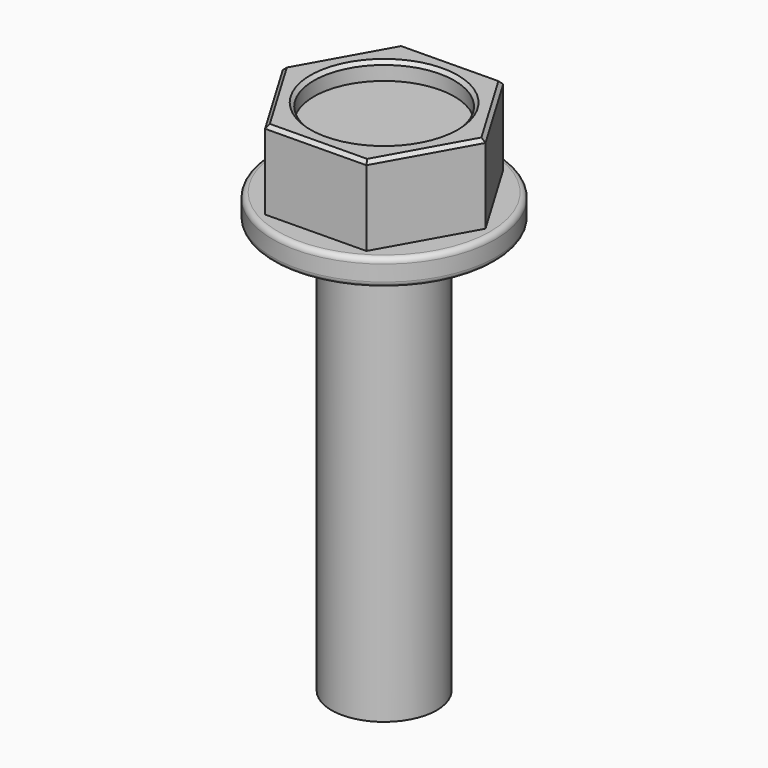
from build123d import *

# Parameters (mm, degrees)
F0_R     = 3
F1_DEPTH = 4.5
F0_R_2   = 6.35
F2_DEPTH = 1.5
F3_DEPTH = 25
F4_R     = 0.3
F5_R     = 4
F6_DEPTH = 1
F7_SIZE  = 0.2


with BuildPart() as f1:
    # F0 (on Top) → F1 (new body)
    with BuildSketch(Plane.XY):
        Polygon((2.921558, -4.912687), (5.715291, 0.0738), (2.793733, 4.986487), (-2.921558, 4.912687), (-5.715291, -0.0738), (-2.793733, -4.986487), align=None)
        Circle(F0_R, mode=Mode.SUBTRACT)
        Circle(F0_R)
    extrude(amount=F1_DEPTH)

    # F0 (on Top) → F2 (join)
    with BuildSketch(Plane.XY):
        Circle(F0_R_2)
        Polygon((2.793733, 4.986487), (5.715291, 0.0738), (2.921558, -4.912687), (-2.793733, -4.986487), (-5.715291, -0.0738), (-2.921558, 4.912687), align=None, mode=Mode.SUBTRACT)
        Circle(F0_R)
        Polygon((2.921558, -4.912687), (5.715291, 0.0738), (2.793733, 4.986487), (-2.921558, 4.912687), (-5.715291, -0.0738), (-2.793733, -4.986487), align=None)
        Circle(F0_R, mode=Mode.SUBTRACT)
    extrude(amount=-F2_DEPTH)

    # F0 (on Top) → F3 (join)
    with BuildSketch(Plane.XY):
        Circle(F0_R)
    extrude(amount=-F3_DEPTH)

    # F4
    f4_edges = [f1.edges().sort_by_distance(p)[0] for p in [
        (6.35, 0, -0.75),
        (-6.35, 0, 0),
        (-6.35, 0, -1.5),
    ]]
    fillet(f4_edges, radius=F4_R)

    # F5 (on face) → F6 (cut)
    with BuildSketch(Plane.XY.offset(4.5)):
        Circle(F5_R)
    extrude(amount=-F6_DEPTH, mode=Mode.SUBTRACT)

    # F7
    f7_edges = [f1.edges().sort_by_distance(p)[0] for p in [
        (0.063913, -4.949587, 4.5),
        (-4.254512, -2.530144, 4.5),
        (4.318425, -2.419444, 4.5),
        (-4.318425, 2.419444, 4.5),
        (4.254512, 2.530144, 4.5),
        (-0.063913, 4.949587, 4.5),
        (-4, 0, 4.5),
    ]]
    chamfer(f7_edges, length=F7_SIZE)


solid = f1.part
